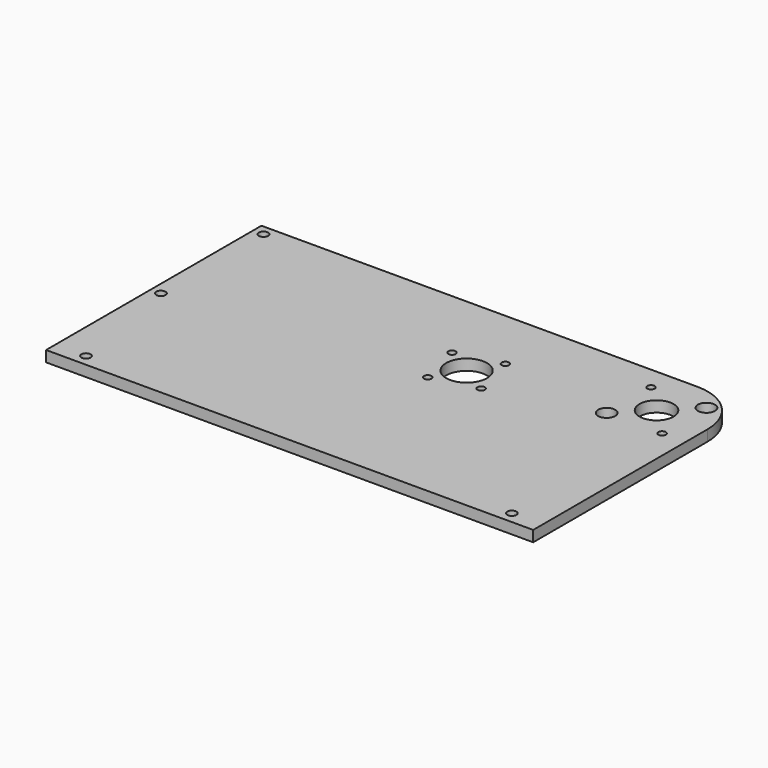
from build123d import *

# Parameters (mm, degrees)
F0_R     = 2.15265
F0_R_2   = 1.7272
F0_R_3   = 9.525
F0_R_4   = 3.96875
F0_R_5   = 7.9375
F1_DEPTH = 5.08


with BuildPart() as f1:
    # F0 (on Top) → F1 (new body)
    with BuildSketch(Plane.XY):
        with BuildLine():
            Line((0, 23.8125), (-193.597083, 23.8125))
            Line((-193.597083, 23.8125), (-203.122083, 23.8125))
            Line((-203.122083, 23.8125), (-203.122083, -101.6))
            Line((-203.122083, -101.6), (23.8125, -101.6))
            Line((23.8125, -101.6), (23.8125, -90.805))
            Line((23.8125, -90.805), (23.8125, 0))
            ThreePointArc((23.8125, 0), (16.83798, 16.83798), (0, 23.8125))
        make_face()
        with Locations((-188.834583, -96.2025)):
            Circle(F0_R, mode=Mode.SUBTRACT)
        with Locations((-198.359583, -40.653914)):
            Circle(F0_R, mode=Mode.SUBTRACT)
        with Locations((9.525, -96.2025)):
            Circle(F0_R, mode=Mode.SUBTRACT)
        with Locations((-198.359583, 19.05)):
            Circle(F0_R, mode=Mode.SUBTRACT)
        with Locations((-81.238881, -31.663497)):
            Circle(F0_R_2, mode=Mode.SUBTRACT)
        with Locations((-60.568717, -26.406832)):
            Circle(F0_R_2, mode=Mode.SUBTRACT)
        with Locations((-73.532132, -18.700083)):
            Circle(F0_R_3, mode=Mode.SUBTRACT)
        with Locations((-86.495546, -10.993334)):
            Circle(F0_R_2, mode=Mode.SUBTRACT)
        with Locations((-12.909118, -12.909118)):
            Circle(F0_R_4, mode=Mode.SUBTRACT)
        with Locations((12.909118, -12.909118)):
            Circle(F0_R_2, mode=Mode.SUBTRACT)
        with Locations((-65.825382, -5.736669)):
            Circle(F0_R_2, mode=Mode.SUBTRACT)
        Circle(F0_R_5, mode=Mode.SUBTRACT)
        with Locations((-12.909118, 12.909118)):
            Circle(F0_R_2, mode=Mode.SUBTRACT)
        with Locations((12.909118, 12.909118)):
            Circle(F0_R_4, mode=Mode.SUBTRACT)
    extrude(amount=F1_DEPTH)


solid = f1.part
